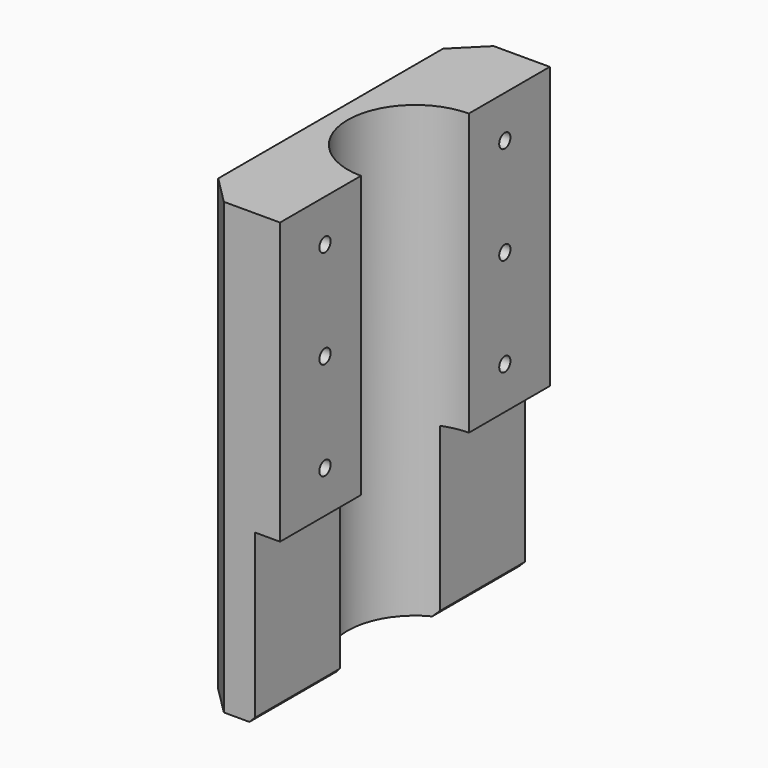
from build123d import *

# Parameters (mm, degrees)
PAD_DEPTH        = 160
SKETCH001_W      = 9
SKETCH001_H      = 172.193062
POCKET_DEPTH     = 60
CHAMFER_SIZE     = 10
CHAMFER001_SIZE  = 2
HOLE_D           = 5
HOLE_CBORE_D     = 16
HOLE_CBORE_DEPTH = 22
SKETCH003_R      = 8.5
PAD001_DEPTH     = 22
CHAMFER002_SIZE  = 3


with BuildPart() as part:
    # Sketch → Pad (new body)
    with BuildSketch(Plane.XY):
        with BuildLine():
            ThreePointArc((-0.1, 23.999792), (-24, 0), (-0.1, -23.999792))
            Line((-0.1, -60), (-0.1, -23.999792))
            Line((-30.1, -60), (-0.1, -60))
            Line((-30.1, 60), (-30.1, -60))
            Line((-30.1, 60), (-0.1, 60))
            Line((-0.1, 60), (-0.1, 23.999792))
        make_face()
    extrude(amount=PAD_DEPTH)

    # Sketch001 → Pocket (cut)
    with BuildSketch(Plane.XY):
        with Locations((-4.5, 7.136196)):
            Rectangle(SKETCH001_W, SKETCH001_H)
    extrude(amount=POCKET_DEPTH, mode=Mode.SUBTRACT)

    # Chamfer
    chamfer_edges = [part.edges().sort_by_distance(p)[0] for p in [
        (-30.1, 60, 80),
        (-30.1, -60, 80),
    ]]
    chamfer(chamfer_edges, length=CHAMFER_SIZE)

    # Chamfer001
    chamfer001_edges = [part.edges().sort_by_distance(p)[0] for p in [
        (-9, -41.124298, 0),
        (-9, 41.124298, 0),
    ]]
    chamfer(chamfer001_edges, length=CHAMFER001_SIZE)

    # Hole (through all)
    with Locations(Plane(origin=(-30.1, 0, 0), x_dir=(0, -1, 0), z_dir=(-1, 0, 0))):
        with Locations((-40, 145), (-40, 75), (40, 145), (40, 75), (-40, 110), (40, 110)):
            CounterBoreHole(HOLE_D / 2, HOLE_CBORE_D / 2, HOLE_CBORE_DEPTH)

    # Sketch003 (on Face30 of Hole) → Pad001 (join)
    with BuildSketch(Plane(origin=(-8.1, 0, 0), x_dir=(0, -1, 0), z_dir=(-1, 0, 0))):
        with Locations((-40, 110)):
            Circle(SKETCH003_R)
        Polygon((-35.950555, 102.986156), (-31.90111, 110), (-35.950555, 117.013844), (-44.049445, 117.013844), (-48.09889, 110), (-44.049445, 102.986156), align=None, mode=Mode.SUBTRACT)
        with Locations((-40, 75)):
            Circle(SKETCH003_R)
        Polygon((-35.950555, 67.986156), (-31.90111, 75), (-35.950555, 82.013844), (-44.049445, 82.013844), (-48.09889, 75), (-44.049445, 67.986156), align=None, mode=Mode.SUBTRACT)
        with Locations((-40, 145)):
            Circle(SKETCH003_R)
        Polygon((-35.880447, 137.864725), (-31.760895, 145), (-35.880447, 152.135275), (-44.119553, 152.135275), (-48.239105, 145), (-44.119553, 137.864725), align=None, mode=Mode.SUBTRACT)
    extrude(amount=PAD001_DEPTH)

    # Chamfer002
    chamfer002_edges = [part.edges().sort_by_distance(p)[0] for p in [
        (-8.1, -40, 72.5),
        (-8.1, -40, 142.5),
        (-8.1, -40, 107.5),
    ]]
    chamfer(chamfer002_edges, length=CHAMFER002_SIZE)


solid = part.part
